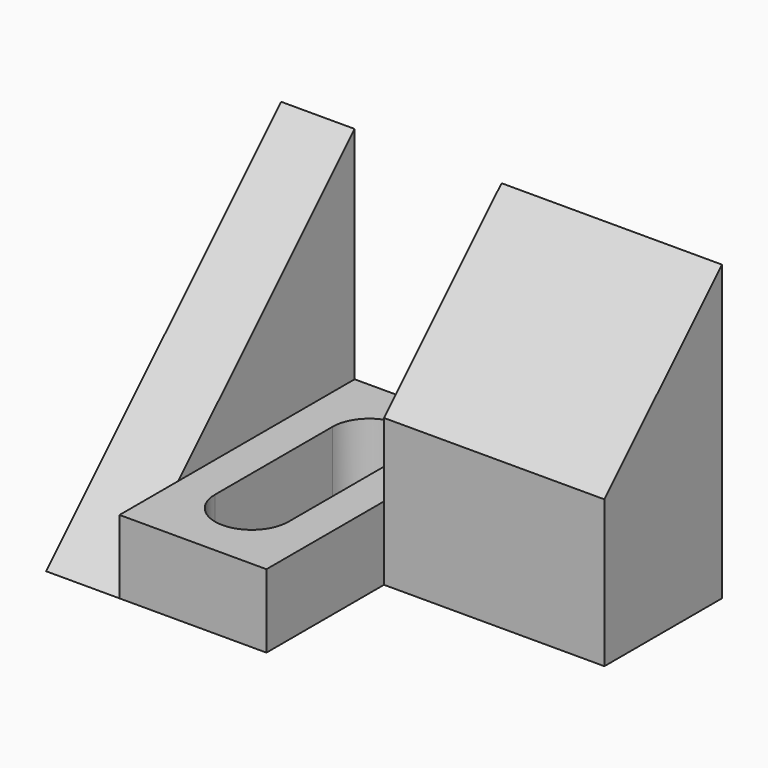
from build123d import *

# Parameters (mm, degrees)
F1_DEPTH = 6.35
F2_W     = 12.7
F2_H     = 25.4
F3_DEPTH = 6.35
F5_DEPTH = 19.05


with BuildPart() as f1:
    # F0 (on Right) → F1 (new body)
    with BuildSketch(Plane.YZ):
        Polygon((25.4, 25.4), (0, 0), (25.4, 0), align=None)
    extrude(amount=F1_DEPTH)

    # F2 (on Top) → F3 (join)
    with BuildSketch(Plane.XY):
        with Locations((12.7, 12.7)):
            Rectangle(F2_W, F2_H)
        with BuildLine():
            Line((9.525, 6.35), (9.525, 19.05))
            ThreePointArc((9.525, 19.05), (12.7, 22.225), (15.875, 19.05))
            Line((15.875, 19.05), (15.875, 6.35))
            ThreePointArc((15.875, 6.35), (12.7, 3.175), (9.525, 6.35))
        make_face(mode=Mode.SUBTRACT)
    extrude(amount=F3_DEPTH)

    # F4 (on face) → F5 (join)
    with BuildSketch(Plane.YZ.offset(19.05)):
        Polygon((25.4, 0), (25.4, 25.4), (12.7, 12.7), (12.7, 0), align=None)
    extrude(amount=F5_DEPTH)


solid = f1.part
